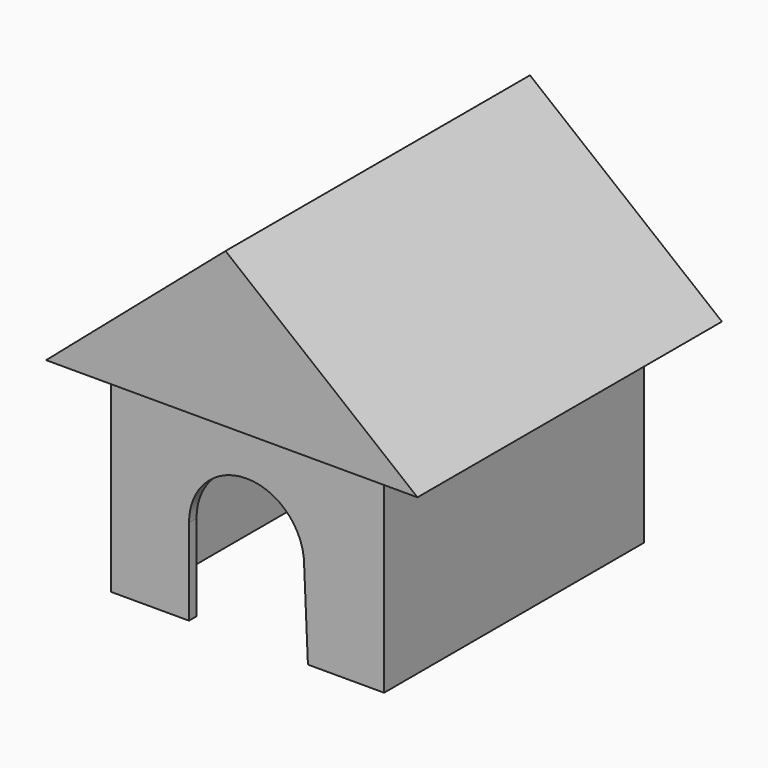
from build123d import *

# Parameters (mm, degrees)
F0_W          = 47.4397577345
F0_H          = 56.4533136785
F1_DEPTH      = 40
F3_DEPTH      = 33
F3_DEPTH_BACK = 33.1
F5_DEPTH      = 33.3
F6_W          = 39.4397577345
F6_H          = 31.9497205708
F7_DEPTH      = 26.6
F7_DEPTH_BACK = 25.8


with BuildPart() as f1:
    # F0 (on Top) → F1 (new body)
    with BuildSketch(Plane.XY):
        Rectangle(F0_W, F0_H)
    extrude(amount=F1_DEPTH)

    # F2 (on Front) → F3 (join, two sides)
    with BuildSketch(Plane.XZ) as f3_sk:
        Polygon((33.3382274703, 34.9497205708), (0, 61.778764094), (-31.1693440729, 34.9497205708), (-28.1035822263, 34.9497205708), (29.8146836554, 34.9497205708), align=None)
    extrude(amount=F3_DEPTH)
    extrude(f3_sk.sketch, amount=-F3_DEPTH_BACK)

    # F4 (on Front) → F5 (cut)
    with BuildSketch(Plane.XZ):
        with BuildLine():
            Line((10.4915505733, 0), (9.8356730979, 15))
            ThreePointArc((9.8356730979, 15), (-0.1643269021, 25), (-10.1643269021, 15))
            Line((-10.1643269021, 15), (-10.1643269021, 0))
            Line((-10.1643269021, 0), (10.4915505733, 0))
        make_face()
    extrude(amount=F5_DEPTH, mode=Mode.SUBTRACT)

    # F6 (on Front) → F7 (cut, two sides)
    with BuildSketch(Plane.XZ) as f7_sk:
        with Locations((0, 15.9748602854)):
            Rectangle(F6_W, F6_H)
    extrude(amount=F7_DEPTH, mode=Mode.SUBTRACT)
    extrude(f7_sk.sketch, amount=-F7_DEPTH_BACK, mode=Mode.SUBTRACT)


solid = f1.part
